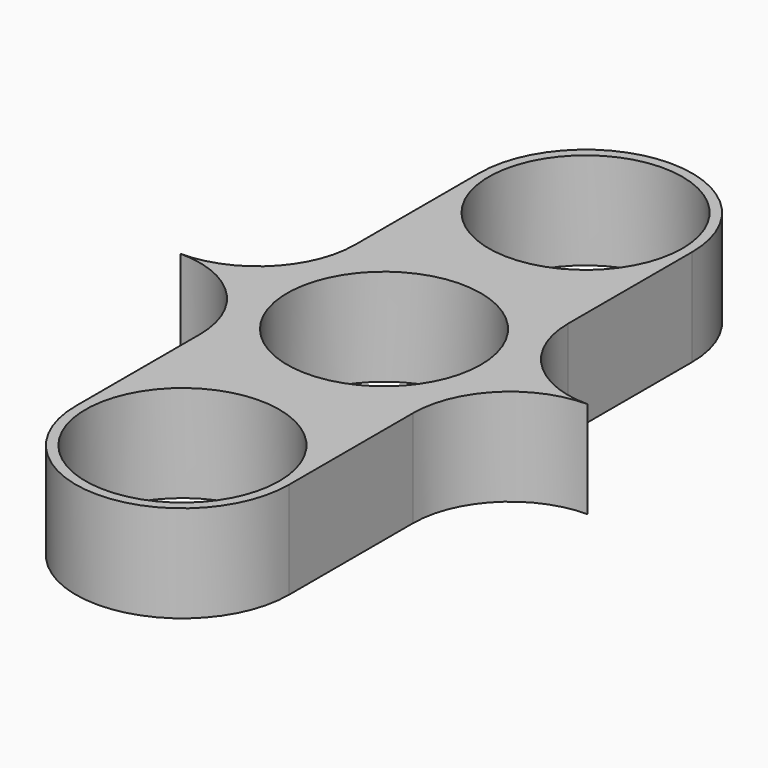
from build123d import *

# Parameters (mm, degrees)
F0_R     = 12.7
F1_DEPTH = 12.7
F2_R     = 12.7
F3_DEPTH = 25.4


with BuildPart() as f1:
    # F0 (on Top) → F1 (new body)
    with BuildSketch(Plane.XY):
        with BuildLine():
            ThreePointArc((-13.97, 33.02), (0, 19.05), (13.97, 33.02))
            ThreePointArc((13.97, 33.02), (0, 46.99), (-13.97, 33.02))
        make_face()
        with BuildLine():
            Line((13.97, 12.7), (13.97, 33.02))
            ThreePointArc((13.97, 33.02), (0, 19.05), (-13.97, 33.02))
            Line((-13.97, 33.02), (-13.97, 12.7))
            Line((-13.97, 12.7), (-13.97, -12.7))
            Line((-13.97, -12.7), (-13.97, -33.02))
            ThreePointArc((-13.97, -33.02), (0, -19.05), (13.97, -33.02))
            Line((13.97, -33.02), (13.97, -12.7))
            Line((13.97, -12.7), (13.97, 12.7))
        make_face()
        Circle(F0_R, mode=Mode.SUBTRACT)
        with BuildLine():
            ThreePointArc((26.67, 0), (17.689744, 3.719744), (13.97, 12.7))
            Line((13.97, 12.7), (13.97, -12.7))
            ThreePointArc((13.97, -12.7), (17.689744, -3.719744), (26.67, 0))
        make_face()
        with BuildLine():
            Line((-13.97, -12.7), (-13.97, 12.7))
            ThreePointArc((-13.97, 12.7), (-17.689744, 3.719744), (-26.67, 0))
            ThreePointArc((-26.67, 0), (-17.689744, -3.719744), (-13.97, -12.7))
        make_face()
        with BuildLine():
            ThreePointArc((-13.97, -33.02), (0, -46.99), (13.97, -33.02))
            ThreePointArc((13.97, -33.02), (0, -19.05), (-13.97, -33.02))
        make_face()
    extrude(amount=F1_DEPTH)

    # F2 (on face) → F3 (cut)
    with BuildSketch(Plane.XY.offset(12.7)):
        with Locations((0, 33.02)):
            Circle(F2_R)
        with Locations((0, -33.02)):
            Circle(F2_R)
    extrude(amount=-F3_DEPTH, mode=Mode.SUBTRACT)


solid = f1.part
